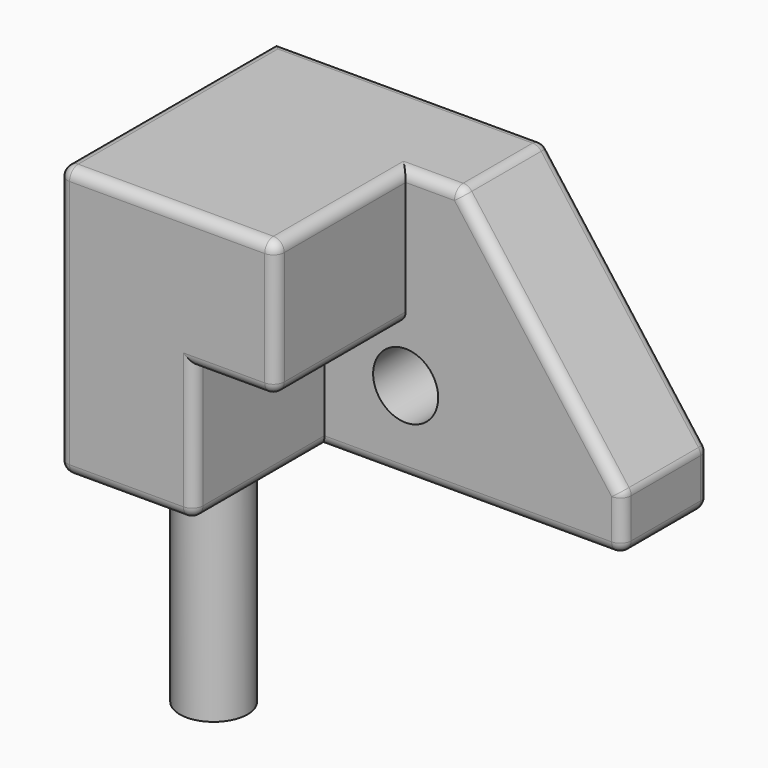
from build123d import *

# Parameters (mm, degrees)
F0_W     = 203.2
F0_H     = 127
F1_DEPTH = 127
F3_DEPTH = 76.2
F4_SIZE2 = 101.6
F4_SIZE  = 76.2
F5_R     = 5.08
F6_R     = 15.24
F7_DEPTH = 381
F8_R     = 15.8851382335
F9_DEPTH = 101.6


with BuildPart() as f1:
    # F0 (on Front) → F1 (new body)
    with BuildSketch(Plane.XZ):
        Rectangle(F0_W, F0_H)
    extrude(amount=F1_DEPTH)

    # F2 (on face) → F3 (cut)
    with BuildSketch(Plane.XZ.offset(127)):
        Polygon((-38.1, 0), (-38.1, -63.5), (101.6, -63.5), (101.6, 63.5), (0, 63.5), (0, 0), align=None)
    extrude(amount=-F3_DEPTH, mode=Mode.SUBTRACT)

    # F4
    f4_edges = [f1.edges().sort_by_distance(p)[0] for p in [
        (101.6, -25.4, 63.5),
    ]]
    f4_side = f1.faces().sort_by_distance((-21.771429, -52.614286, 63.5))[0]
    chamfer(f4_edges, length=F4_SIZE, length2=F4_SIZE2, reference=f4_side)

    # F5
    f5_edges = [f1.edges().sort_by_distance(p)[0] for p in [
        (-50.8, -127, 63.5),
        (-101.6, -63.5, 63.5),
        (12.7, -50.8, 63.5),
        (0, -127, 31.75),
        (-19.05, -127, 0),
        (-38.1, -127, -31.75),
        (-69.85, -127, -63.5),
        (-101.6, -127, 0),
        (-38.1, -88.9, -63.5),
        (31.75, -50.8, -63.5),
        (0, 0, -63.5),
        (101.6, -25.4, -63.5),
        (-101.6, -63.5, -63.5),
        (-38.1, 0, 63.5),
        (25.4, -25.4, 63.5),
        (0, -88.9, 63.5),
        (0, -88.9, 0),
        (101.6, -25.4, -38.1),
        (63.5, -50.8, 12.7),
        (63.5, 0, 12.7),
        (101.6, -50.8, -50.8),
        (101.6, 0, -50.8),
    ]]
    fillet(f5_edges, radius=F5_R)

    # F6 (on face) → F7 (cut)
    with BuildSketch(Plane.XZ.offset(50.8)):
        with Locations((0, -25.4)):
            Circle(F6_R)
    extrude(amount=-F7_DEPTH, mode=Mode.SUBTRACT)


with BuildPart() as f9:
    # F8 (on face) → F9 (new body)
    with BuildSketch(Plane(origin=(0, 0, -63.5), x_dir=(1, 0, 0), z_dir=(0, 0, -1))):
        with Locations((-65.9993290901, 80.7681381702)):
            Circle(F8_R)
    extrude(amount=F9_DEPTH)


solid = Compound([f1.part, f9.part])
